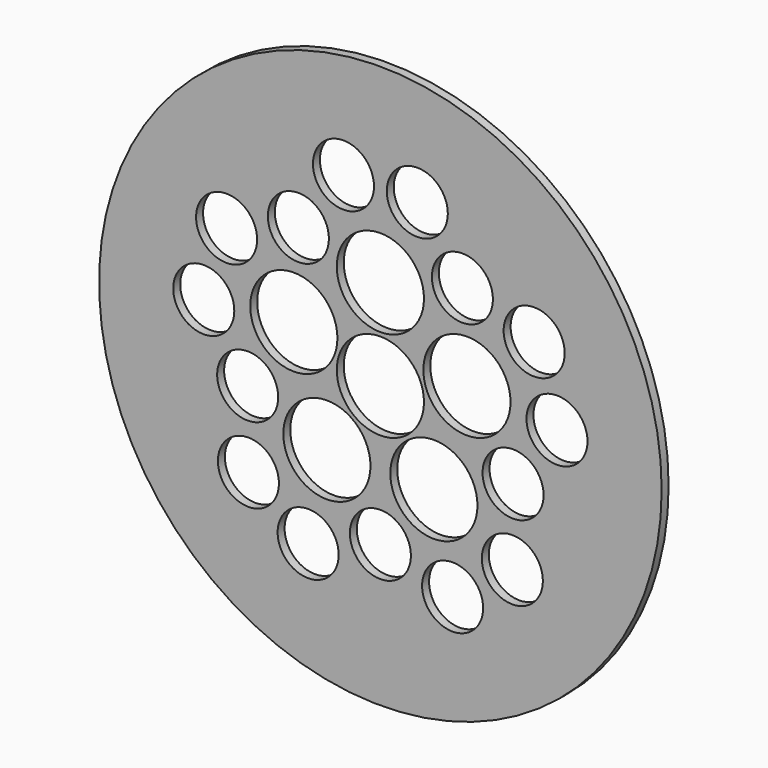
from build123d import *

# Parameters (mm, degrees)
F0_R     = 409.683653
F0_R_2   = 44.45
F0_R_3   = 63.5
F1_DEPTH = 12.7


with BuildPart() as f1:
    # F0 (on Front) → F1 (new body)
    with BuildSketch(Plane.XZ):
        Circle(F0_R)
        with Locations((-105.19879, -236.280351)):
            Circle(F0_R_2, mode=Mode.SUBTRACT)
        with Locations((-192.207754, -173.064639)):
            Circle(F0_R_2, mode=Mode.SUBTRACT)
        with Locations((-77.914282, -107.239809)):
            Circle(F0_R_3, mode=Mode.SUBTRACT)
        with Locations((-193.254684, -62.792253)):
            Circle(F0_R_2, mode=Mode.SUBTRACT)
        with Locations((105.19879, -236.280351)):
            Circle(F0_R_2, mode=Mode.SUBTRACT)
        with Locations((0, -203.2)):
            Circle(F0_R_2, mode=Mode.SUBTRACT)
        with Locations((77.914282, -107.239809)):
            Circle(F0_R_3, mode=Mode.SUBTRACT)
        with Locations((192.207754, -173.064639)):
            Circle(F0_R_2, mode=Mode.SUBTRACT)
        with Locations((193.254684, -62.792253)):
            Circle(F0_R_2, mode=Mode.SUBTRACT)
        with Locations((-257.224182, 27.035351)):
            Circle(F0_R_2, mode=Mode.SUBTRACT)
        with Locations((-223.989715, 129.320522)):
            Circle(F0_R_2, mode=Mode.SUBTRACT)
        with Locations((-126.067956, 40.961962)):
            Circle(F0_R_3, mode=Mode.SUBTRACT)
        with Locations((-119.437963, 164.392253)):
            Circle(F0_R_2, mode=Mode.SUBTRACT)
        with Locations((-53.774497, 252.989117)):
            Circle(F0_R_2, mode=Mode.SUBTRACT)
        Circle(F0_R_3, mode=Mode.SUBTRACT)
        with Locations((126.067956, 40.961962)):
            Circle(F0_R_3, mode=Mode.SUBTRACT)
        with Locations((0, 132.555693)):
            Circle(F0_R_3, mode=Mode.SUBTRACT)
        with Locations((119.437963, 164.392253)):
            Circle(F0_R_2, mode=Mode.SUBTRACT)
        with Locations((257.224182, 27.035351)):
            Circle(F0_R_2, mode=Mode.SUBTRACT)
        with Locations((223.989715, 129.320522)):
            Circle(F0_R_2, mode=Mode.SUBTRACT)
        with Locations((53.774497, 252.989117)):
            Circle(F0_R_2, mode=Mode.SUBTRACT)
    extrude(amount=F1_DEPTH)


solid = f1.part
